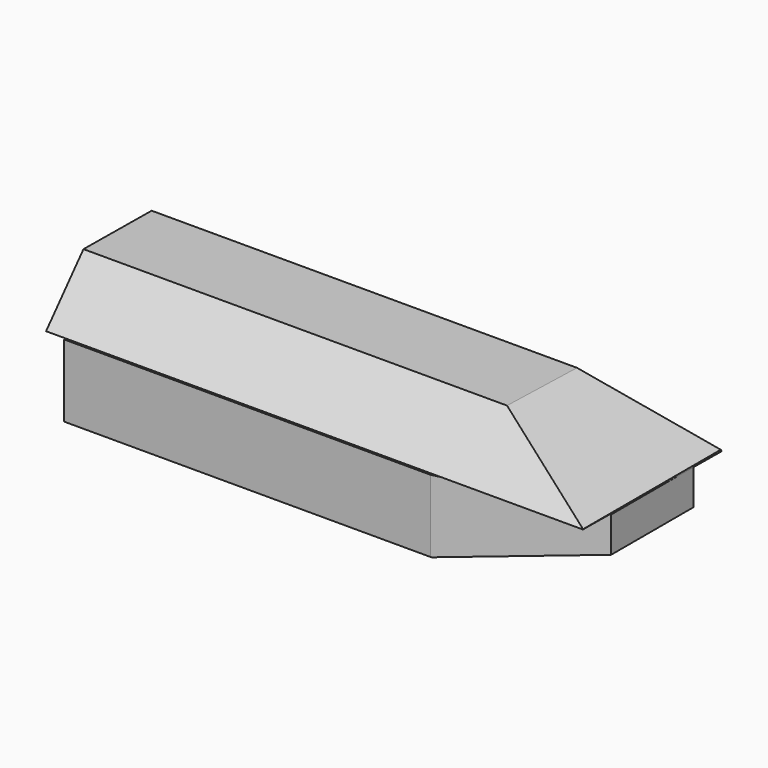
from build123d import *

# Parameters (mm, degrees)
F1_DEPTH = 25.4
F3_DEPTH = 101.6
F5_DEPTH = 127


with BuildPart() as f1:
    # F0 (on Top) → F1 (new body)
    with BuildSketch(Plane.XY):
        Polygon((32.903377, 31.103013), (-95.314093, 31.103013), (-95.314093, -29.911235), (33.370786, -29.911235), (86.780615, -17.424744), (86.780615, 18.638877), align=None)
    extrude(amount=F1_DEPTH)

    # F2 (on Right) → F3 (join, symmetric)
    with BuildSketch(Plane.YZ):
        Polygon((-13.52687, 44.609893), (-29.9318, 25.902519), (31.083023, 25.326908), (16.404927, 44.322085), align=None)
    extrude(amount=F3_DEPTH, both=True)

    # F4 (on Front) → F5 (cut, symmetric)
    with BuildSketch(Plane.XZ):
        Polygon((33.817593, 0), (86.885192, 0), (110.29736, 0), (110.29736, 60.351387), (87.925732, 60.351387), (13.527044, 60.351387), (86.885192, 25.980785), (86.885192, 12.990392), align=None)
    extrude(amount=F5_DEPTH, both=True, mode=Mode.SUBTRACT)


solid = f1.part
